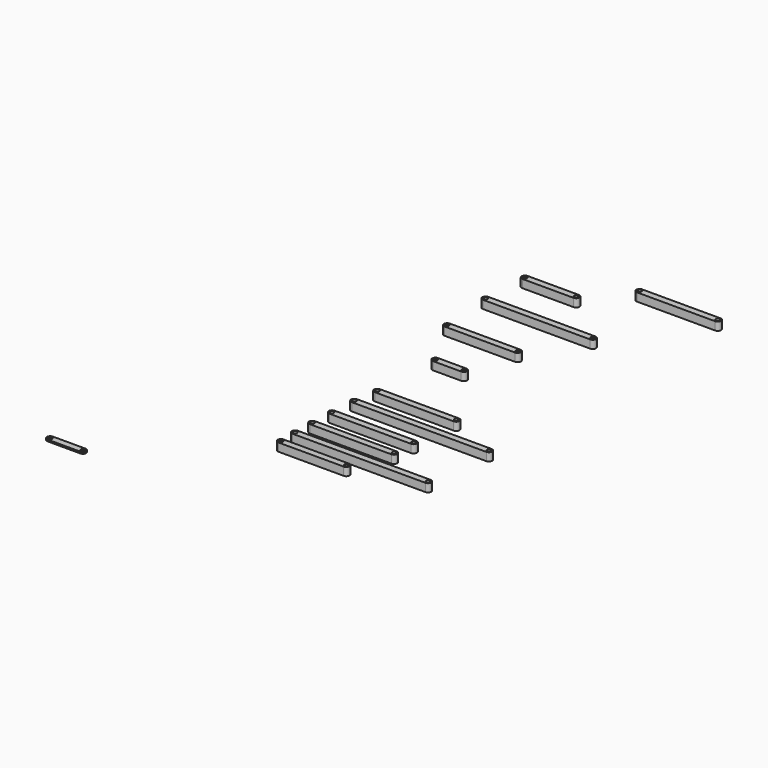
from build123d import *

# Parameters (mm, degrees)
F0_R      = 6
F1_DEPTH  = 25
F2_R      = 6
F3_DEPTH  = 25
F4_R      = 6
F5_DEPTH  = 25
F6_R      = 6
F7_DEPTH  = 25
F8_R      = 6
F9_DEPTH  = 25
F10_R     = 6
F11_DEPTH = 25
F12_R     = 6
F13_DEPTH = 5
F14_R     = 6
F15_DEPTH = 25
F16_R     = 6
F17_DEPTH = 25
F18_R     = 6
F19_DEPTH = 25
F20_R     = 6
F21_DEPTH = 25
F22_R     = 6
F23_DEPTH = 25


with BuildPart() as f1:
    # F0 (on Top) → F1 (new body)
    with BuildSketch(Plane.XY):
        with BuildLine():
            ThreePointArc((-54.157499, 26.372142), (-64.157499, 16.372142), (-54.157499, 6.372142))
            Line((-54.157499, 6.372142), (146.428801, 6.372142))
            ThreePointArc((146.428801, 6.372142), (156.428801, 16.372142), (146.428801, 26.372142))
            Line((146.428801, 26.372142), (-54.157499, 26.372142))
        make_face()
        with Locations((-54.157499, 16.372142)):
            Circle(F0_R, mode=Mode.SUBTRACT)
        with Locations((146.428801, 16.372142)):
            Circle(F0_R, mode=Mode.SUBTRACT)
    extrude(amount=F1_DEPTH)


with BuildPart() as f3:
    # F2 (on Top) → F3 (new body)
    with BuildSketch(Plane.XY):
        with BuildLine():
            ThreePointArc((-55.999979, 82.913679), (-65.999979, 72.913679), (-55.999979, 62.913679))
            Line((-55.999979, 62.913679), (351.885521, 62.913679))
            ThreePointArc((351.885521, 62.913679), (361.885521, 72.913679), (351.885521, 82.913679))
            Line((351.885521, 82.913679), (-55.999979, 82.913679))
        make_face()
        with Locations((-55.999979, 72.913679)):
            Circle(F2_R, mode=Mode.SUBTRACT)
        with Locations((351.885521, 72.913679)):
            Circle(F2_R, mode=Mode.SUBTRACT)
    extrude(amount=F3_DEPTH)


with BuildPart() as f5:
    # F4 (on Top) → F5 (new body)
    with BuildSketch(Plane.XY):
        with BuildLine():
            ThreePointArc((-54.655418, 147.474176), (-64.655418, 137.474176), (-54.655418, 127.474176))
            Line((-54.655418, 127.474176), (195.943882, 127.474176))
            ThreePointArc((195.943882, 127.474176), (205.943882, 137.474176), (195.943882, 147.474176))
            Line((195.943882, 147.474176), (-54.655418, 147.474176))
        make_face()
        with Locations((-54.655418, 137.474176)):
            Circle(F4_R, mode=Mode.SUBTRACT)
        with Locations((195.943882, 137.474176)):
            Circle(F4_R, mode=Mode.SUBTRACT)
    extrude(amount=F5_DEPTH)


with BuildPart() as f7:
    # F6 (on Top) → F7 (new body)
    with BuildSketch(Plane.XY):
        with BuildLine():
            ThreePointArc((-51.999994, 219.49472), (-61.999994, 209.49472), (-51.999994, 199.49472))
            Line((-51.999994, 199.49472), (198.599306, 199.49472))
            ThreePointArc((198.599306, 199.49472), (208.599306, 209.49472), (198.599306, 219.49472))
            Line((198.599306, 219.49472), (-51.999994, 219.49472))
        make_face()
        with Locations((-51.999994, 209.49472)):
            Circle(F6_R, mode=Mode.SUBTRACT)
        with Locations((198.599306, 209.49472)):
            Circle(F6_R, mode=Mode.SUBTRACT)
    extrude(amount=F7_DEPTH)


with BuildPart() as f9:
    # F8 (on Top) → F9 (new body)
    with BuildSketch(Plane.XY):
        with BuildLine():
            ThreePointArc((-47.322869, 299.423177), (-57.322869, 289.423177), (-47.322869, 279.423177))
            Line((-47.322869, 279.423177), (365.402631, 279.423177))
            ThreePointArc((365.402631, 279.423177), (375.402631, 289.423177), (365.402631, 299.423177))
            Line((365.402631, 299.423177), (-47.322869, 299.423177))
        make_face()
        with Locations((-47.322869, 289.423177)):
            Circle(F8_R, mode=Mode.SUBTRACT)
        with Locations((365.402631, 289.423177)):
            Circle(F8_R, mode=Mode.SUBTRACT)
    extrude(amount=F9_DEPTH)


with BuildPart() as f11:
    # F10 (on Top) → F11 (new body)
    with BuildSketch(Plane.XY):
        with BuildLine():
            ThreePointArc((-36.713388, 374.385644), (-46.713388, 364.385644), (-36.713388, 354.385644))
            Line((-36.713388, 354.385644), (205.523912, 354.385644))
            ThreePointArc((205.523912, 354.385644), (215.523912, 364.385644), (205.523912, 374.385644))
            Line((205.523912, 374.385644), (-36.713388, 374.385644))
        make_face()
        with Locations((-36.713388, 364.385644)):
            Circle(F10_R, mode=Mode.SUBTRACT)
        with Locations((205.523912, 364.385644)):
            Circle(F10_R, mode=Mode.SUBTRACT)
    extrude(amount=F11_DEPTH)


with BuildPart() as f13:
    # F12 (on Top) → F13 (new body)
    with BuildSketch(Plane.XY):
        with BuildLine():
            ThreePointArc((-519.265652, -277.234952), (-529.265652, -287.234952), (-519.265652, -297.234952))
            Line((-519.265652, -297.234952), (-419.265652, -297.234952))
            ThreePointArc((-419.265652, -297.234952), (-409.265652, -287.234952), (-419.265652, -277.234952))
            Line((-419.265652, -277.234952), (-519.265652, -277.234952))
        make_face()
        with Locations((-519.265652, -287.234952)):
            Circle(F12_R, mode=Mode.SUBTRACT)
        with Locations((-419.265652, -287.234952)):
            Circle(F12_R, mode=Mode.SUBTRACT)
    extrude(amount=F13_DEPTH)


with BuildPart() as f15:
    # F14 (on Top) → F15 (new body)
    with BuildSketch(Plane.XY):
        with BuildLine():
            ThreePointArc((-28.916372, 587.472756), (-38.916372, 577.472756), (-28.916372, 567.472756))
            Line((-28.916372, 567.472756), (58.176028, 567.472756))
            ThreePointArc((58.176028, 567.472756), (68.176028, 577.472756), (58.176028, 587.472756))
            Line((58.176028, 587.472756), (-28.916372, 587.472756))
        make_face()
        with Locations((-28.916372, 577.472756)):
            Circle(F14_R, mode=Mode.SUBTRACT)
        with Locations((58.176028, 577.472756)):
            Circle(F14_R, mode=Mode.SUBTRACT)
    extrude(amount=F15_DEPTH)


with BuildPart() as f17:
    # F16 (on Top) → F17 (new body)
    with BuildSketch(Plane.XY):
        with BuildLine():
            ThreePointArc((-118.76381, 744.985352), (-128.76381, 734.985352), (-118.76381, 724.985352))
            Line((-118.76381, 724.985352), (97.37459, 724.985352))
            ThreePointArc((97.37459, 724.985352), (107.37459, 734.985352), (97.37459, 744.985352))
            Line((97.37459, 744.985352), (-118.76381, 744.985352))
        make_face()
        with Locations((-118.76381, 734.985352)):
            Circle(F16_R, mode=Mode.SUBTRACT)
        with Locations((97.37459, 734.985352)):
            Circle(F16_R, mode=Mode.SUBTRACT)
    extrude(amount=F17_DEPTH)


with BuildPart() as f19:
    # F18 (on Top) → F19 (new body)
    with BuildSketch(Plane.XY):
        with BuildLine():
            ThreePointArc((-133.444587, 910.731146), (-143.444587, 900.731146), (-133.444587, 890.731146))
            Line((-133.444587, 890.731146), (195.230313, 890.731146))
            ThreePointArc((195.230313, 890.731146), (205.230313, 900.731146), (195.230313, 910.731146))
            Line((195.230313, 910.731146), (-133.444587, 910.731146))
        make_face()
        with Locations((-133.444587, 900.731146)):
            Circle(F18_R, mode=Mode.SUBTRACT)
        with Locations((195.230313, 900.731146)):
            Circle(F18_R, mode=Mode.SUBTRACT)
    extrude(amount=F19_DEPTH)


with BuildPart() as f21:
    # F20 (on Top) → F21 (new body)
    with BuildSketch(Plane.XY):
        with BuildLine():
            ThreePointArc((-127.867104, 1054.293523), (-137.867104, 1044.293523), (-127.867104, 1034.293523))
            Line((-127.867104, 1034.293523), (29.642696, 1034.293523))
            ThreePointArc((29.642696, 1034.293523), (39.642696, 1044.293523), (29.642696, 1054.293523))
            Line((29.642696, 1054.293523), (-127.867104, 1054.293523))
        make_face()
        with Locations((-127.867104, 1044.293523)):
            Circle(F20_R, mode=Mode.SUBTRACT)
        with Locations((29.642696, 1044.293523)):
            Circle(F20_R, mode=Mode.SUBTRACT)
    extrude(amount=F21_DEPTH)


with BuildPart() as f23:
    # F22 (on Top) → F23 (new body)
    with BuildSketch(Plane.XY):
        with BuildLine():
            ThreePointArc((130.214376, 1171.422849), (120.214376, 1161.422849), (130.214376, 1151.422849))
            Line((130.214376, 1151.422849), (370.214376, 1151.422849))
            ThreePointArc((370.214376, 1151.422849), (380.214376, 1161.422849), (370.214376, 1171.422849))
            Line((370.214376, 1171.422849), (130.214376, 1171.422849))
        make_face()
        with Locations((130.214376, 1161.422849)):
            Circle(F22_R, mode=Mode.SUBTRACT)
        with Locations((370.214376, 1161.422849)):
            Circle(F22_R, mode=Mode.SUBTRACT)
    extrude(amount=F23_DEPTH)


solid = Compound([f1.part, f3.part, f5.part, f7.part, f9.part, f11.part, f13.part, f15.part, f17.part, f19.part, f21.part, f23.part])
